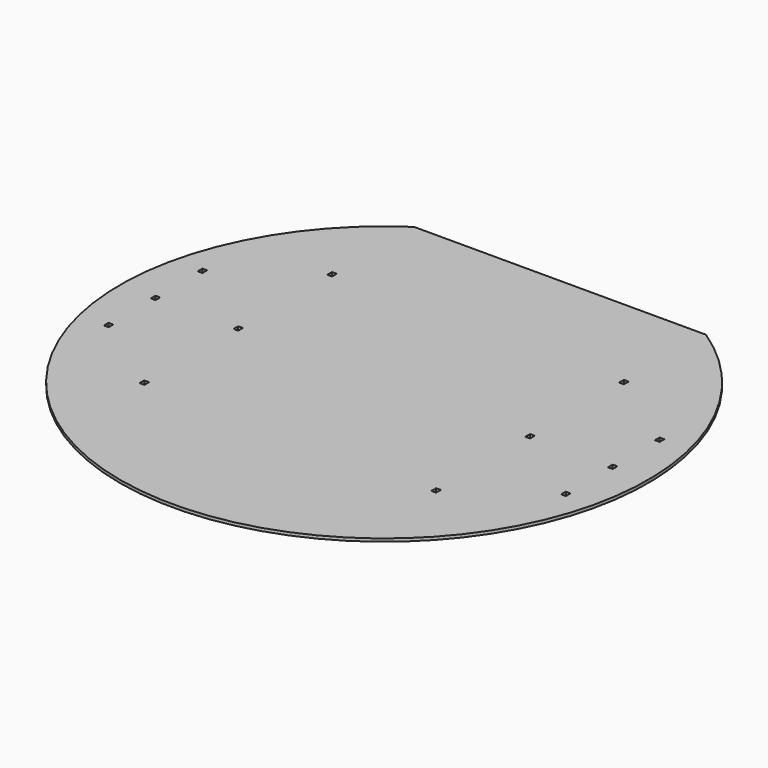
from build123d import *

# Parameters (mm, degrees)
F1_DEPTH = 2.54
F2_W     = 4.0894
F2_H     = 5.08
F3_DEPTH = 25.4
F4_DEPTH = 25.4


with BuildPart() as f1:
    # F0 (on Top) → F1 (new body)
    with BuildSketch(Plane.XY):
        with BuildLine():
            Line((126.392629, 190.480612), (-126.392629, 190.480612))
            ThreePointArc((-126.392629, 190.480612), (0, -228.6), (126.392629, 190.480612))
        make_face()
    extrude(amount=F1_DEPTH)

    # F2 (on face) → F3 (cut)
    with BuildSketch(Plane.XY.offset(2.54)):
        with Locations((-197.973407, 0)):
            Rectangle(F2_W, F2_H)
        with Locations((-126.363405, 0)):
            Rectangle(F2_W, F2_H)
        with Locations((-197.973407, 50.8)):
            Rectangle(F2_W, F2_H)
        with Locations((-197.973407, -50.8)):
            Rectangle(F2_W, F2_H)
        with Locations((-126.363405, 101.6)):
            Rectangle(F2_W, F2_H)
        with Locations((-126.363405, -101.6)):
            Rectangle(F2_W, F2_H)
        with Locations((197.973407, 0)):
            Rectangle(F2_W, F2_H)
        with Locations((197.973407, -50.8)):
            Rectangle(F2_W, F2_H)
        with Locations((197.973407, 50.8)):
            Rectangle(F2_W, F2_H)
        with Locations((126.363405, 0)):
            Rectangle(F2_W, F2_H)
        with Locations((126.363405, -101.6)):
            Rectangle(F2_W, F2_H)
        with Locations((126.363405, 101.6)):
            Rectangle(F2_W, F2_H)
    extrude(amount=-F3_DEPTH, mode=Mode.SUBTRACT)

    # F2 (on face) → F4 (cut)
    with BuildSketch(Plane.XY.offset(2.54)):
        with Locations((126.363405, 101.6)):
            Rectangle(F2_W, F2_H)
        with Locations((197.973407, 50.8)):
            Rectangle(F2_W, F2_H)
        with Locations((126.363405, 0)):
            Rectangle(F2_W, F2_H)
        with Locations((197.973407, 0)):
            Rectangle(F2_W, F2_H)
        with Locations((197.973407, -50.8)):
            Rectangle(F2_W, F2_H)
        with Locations((126.363405, -101.6)):
            Rectangle(F2_W, F2_H)
    extrude(amount=-F4_DEPTH, mode=Mode.SUBTRACT)


solid = f1.part
